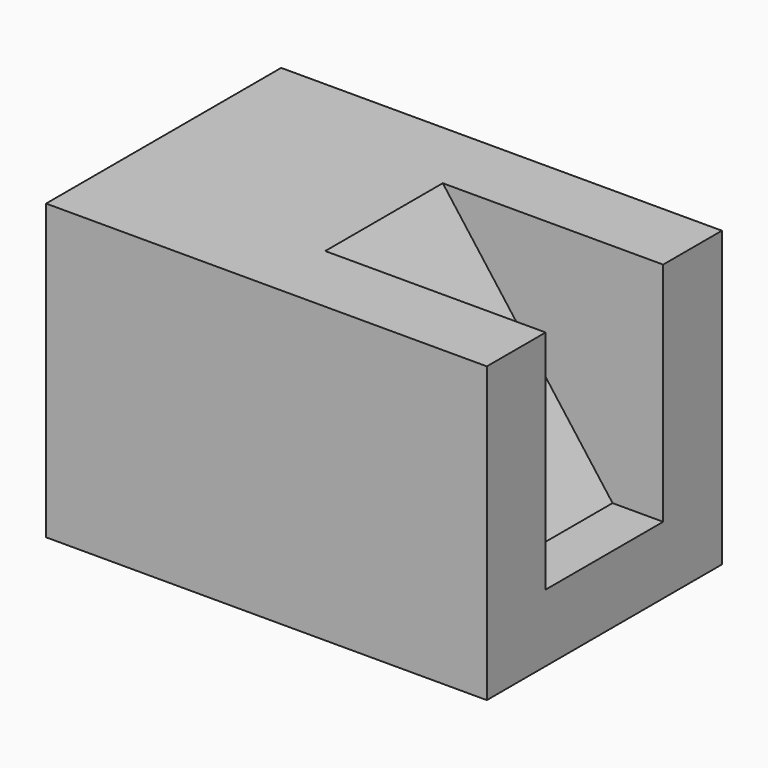
from build123d import *

# Parameters (mm, degrees)
F0_W     = 19.05
F0_H     = 25.4
F1_DEPTH = 25.4
F3_DEPTH = 38.1
F4_DEPTH = 25.4


with BuildPart() as f1:
    # F0 (on Front) → F1 (new body)
    with BuildSketch(Plane.XZ):
        with Locations((9.525, 12.7)):
            Rectangle(F0_W, F0_H)
    extrude(amount=-F1_DEPTH)

    # F2 (on Right) → F3 (join)
    with BuildSketch(Plane.YZ):
        Polygon((0, 25.4), (0, 0), (25.4, 0), (25.4, 25.4), (19.05, 25.4), (19.05, 5.828295), (6.35, 5.828295), (6.35, 25.4), align=None)
    extrude(amount=F3_DEPTH)

    # F0 (on Front) → F4 (join)
    with BuildSketch(Plane.XZ):
        Polygon((19.05, 25.4), (19.05, 0), (38.1, 0), align=None)
    extrude(amount=-F4_DEPTH)


solid = f1.part
